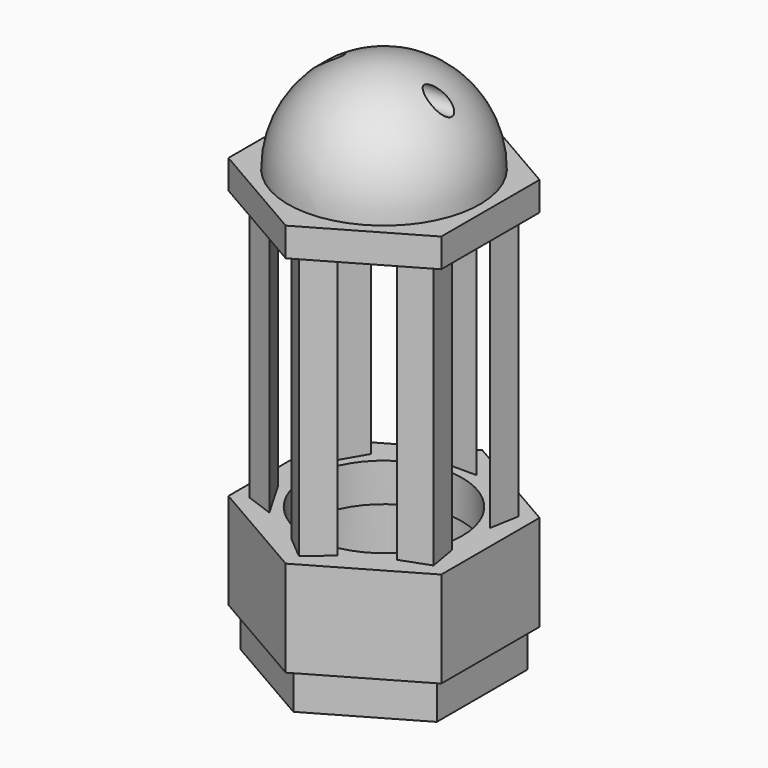
from build123d import *

# Parameters (mm, degrees)
F1_DEPTH       = 7.9375
F3_DEPTH       = 22.225
F4_R           = 6.35
F5_DEPTH       = 2.38125
F8_R           = 7.239
F9_DEPTH       = 4.7625
F10_R          = 6.477
F11_DEPTH      = 3.175
F12_R          = 7.3025
F13_DEPTH      = 3.175
F14_R          = 0.79375
F15_DEPTH      = 8.7998181024
F15_DEPTH_BACK = 8.7998181024


with BuildPart() as f1:
    # F0 (on Top) → F1 (new body)
    with BuildSketch(Plane.XY):
        Polygon((8.7988181024, 5.08), (0, 10.16), (-8.7988181024, 5.08), (-8.7988181024, -5.08), (0, -10.16), (8.7988181024, -5.08), align=None)
    extrude(amount=F1_DEPTH)

    # F2 (on face) → F3 (join)
    with BuildSketch(Plane.XY.offset(7.9375)):
        Polygon((1.905, 7.2003333051), (0, 8.7988181024), (-1.905, 7.2003333051), align=None)
        Polygon((-5.2831715579, 5.2499450467), (-7.62, 4.3994090512), (-7.1881715579, 1.9503882583), align=None)
        Polygon((-7.1881715579, -1.9503882583), (-7.62, -4.3994090512), (-5.2831715579, -5.2499450467), align=None)
        Polygon((-1.905, -7.2003333051), (0, -8.7988181024), (1.905, -7.2003333051), align=None)
        Polygon((5.2831715579, -5.2499450467), (7.62, -4.3994090512), (7.1881715579, -1.9503882583), align=None)
        Polygon((7.1881715579, 1.9503882583), (7.62, 4.3994090512), (5.2831715579, 5.2499450467), align=None)
    extrude(amount=F3_DEPTH)

    # F4 (on face) → F5 (join)
    with BuildSketch(Plane.XY.offset(30.1625)):
        Polygon((8.7988181024, 5.08), (0, 10.16), (-8.7988181024, 5.08), (-8.7988181024, -5.08), (0, -10.16), (8.7988181024, -5.08), align=None)
        Circle(F4_R, mode=Mode.SUBTRACT)
    extrude(amount=F5_DEPTH)

    # F6 (on Right) → F7 (revolve)
    with BuildSketch(Plane.YZ):
        with BuildLine():
            Line((-6.477, 34.925), (0, 34.925))
            Line((0, 34.925), (0, 40.48125))
            ThreePointArc((0, 40.48125), (-5.6126600757, 38.1564100757), (-7.9375, 32.54375))
            Line((-7.9375, 32.54375), (-6.477, 32.54375))
            Line((-6.477, 32.54375), (-6.477, 34.925))
        make_face()
    revolve(axis=Axis((0, 0, 32.54375), (0, 0, 1)))

    # F8 (on face) → F9 (cut)
    with BuildSketch(Plane(origin=(0, 0, 0), x_dir=(1, 0, 0), z_dir=(0, 0, -1))):
        Circle(F8_R)
    extrude(amount=-F9_DEPTH, mode=Mode.SUBTRACT)

    # F10 (on face) → F11 (cut, through all)
    with BuildSketch(Plane(origin=(0, 0, 4.7625), x_dir=(1, 0, 0), z_dir=(0, 0, -1))):
        Circle(F10_R)
    extrude(amount=-F11_DEPTH, mode=Mode.SUBTRACT)

    # F12 (on face) → F13 (join)
    with BuildSketch(Plane(origin=(0, 0, 0), x_dir=(1, 0, 0), z_dir=(0, 0, -1))):
        Polygon((-8.1114104382, -4.683125), (0, -9.36625), (8.1114104382, -4.683125), (8.1114104382, 4.683125), (0, 9.36625), (-8.1114104382, 4.683125), align=None)
        Circle(F12_R, mode=Mode.SUBTRACT)
    extrude(amount=F13_DEPTH)

    # F14 (on Right) → F15 (cut, two sides)
    with BuildSketch(Plane.YZ) as f15_sk:
        with Locations((0, 38.95725)):
            Circle(F14_R)
    extrude(amount=-F15_DEPTH, mode=Mode.SUBTRACT)
    extrude(f15_sk.sketch, amount=F15_DEPTH_BACK, mode=Mode.SUBTRACT)


solid = f1.part
